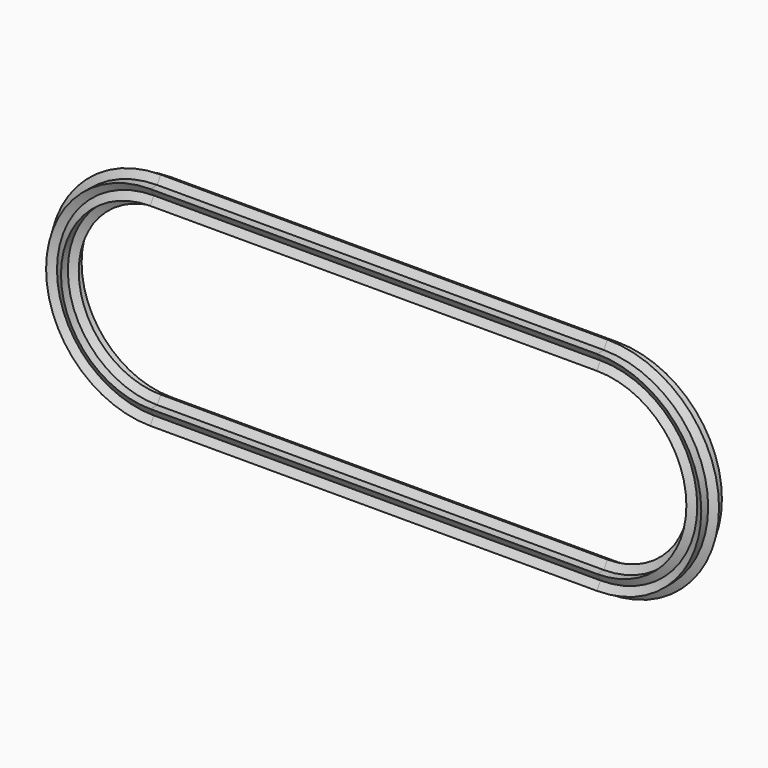
from build123d import *


with BuildPart() as f3:
    # F3: sweep along a path in F0
    with BuildLine(Plane.XZ) as f3_path:
        Line((-75.8256912231, 30), (74.0892291069, 30))
        ThreePointArc((74.0892291069, 30), (104.0892291069, 0), (74.0892291069, -30))
        Line((74.0892291069, -30), (-75.8256912231, -30))
        ThreePointArc((-75.8256912231, -30), (-105.8256912231, 0), (-75.8256912231, 30))
    # F2 (on plane+point) → F3 (sweep)
    with BuildSketch(Plane.YZ.offset(74.0892291069)):
        Polygon((1.443375673, 35), (2.8867513459, 32.5), (4.3301270189, 35), align=None)
        Polygon((-1.443375673, 35), (1.443375673, 35), (0, 37.5), align=None)
        Polygon((-4.3301270189, 35), (-2.8867513459, 32.5), (-1.443375673, 35), align=None)
        Polygon((-4.3301270189, 30), (-1.443375673, 30), (-2.8867513459, 32.5), align=None)
        Polygon((0, 27.5), (1.443375673, 30), (-1.443375673, 30), align=None)
        Polygon((1.443375673, 30), (4.3301270189, 30), (2.8867513459, 32.5), align=None)
        Polygon((-1.443375673, 30), (1.443375673, 30), (2.8867513459, 32.5), (1.443375673, 35), (-1.443375673, 35), (-2.8867513459, 32.5), align=None)
    sweep(path=f3_path.line)


solid = f3.part
